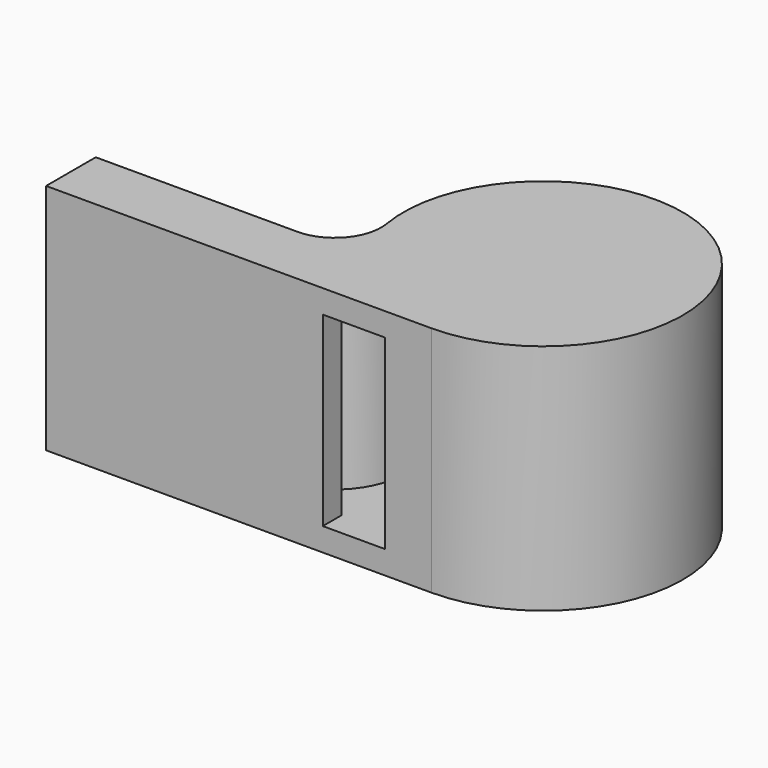
from build123d import *

# Parameters (mm, degrees)
F1_DEPTH = 7.5
F2_T     = -1.5
F3_W     = 4
F3_H     = 12
F4_DEPTH = 1.5


with BuildPart() as f1:
    # F0 (on Top) → F1 (new body, symmetric)
    with BuildSketch(Plane.XY):
        with BuildLine():
            Line((-24.83216, -9), (0, -9))
            ThreePointArc((0, -9), (5.809475, 6.873864), (-8.87412, -1.5))
            ThreePointArc((-8.87412, -1.5), (-9.540872, -3.936492), (-11.83216, -5))
            Line((-11.83216, -5), (-24.83216, -5))
            Line((-24.83216, -5), (-24.83216, -9))
        make_face()
    extrude(amount=F1_DEPTH, both=True)

    # F2
    f2_openings = [f1.faces().sort_by_distance(p)[0] for p in [
        (-24.83216, -7, 0),
    ]]
    offset(amount=F2_T, openings=f2_openings)

    # F3 (on face) → F4 (cut)
    with BuildSketch(Plane.XZ.offset(9)):
        with Locations((-5, 0)):
            Rectangle(F3_W, F3_H)
    extrude(amount=-F4_DEPTH, mode=Mode.SUBTRACT)


with BuildPart() as f6:
    # F5 (on Top) → F6 (revolve)
    with BuildSketch(Plane.XY):
        with BuildLine():
            ThreePointArc((7.5, 0), (2.5, 5), (-2.5, 0))
            Line((-2.5, 0), (7.5, 0))
        make_face()
    revolve(axis=Axis((2.5, 0, 0), (1, 0, 0)))


solid = Compound([f1.part, f6.part])
